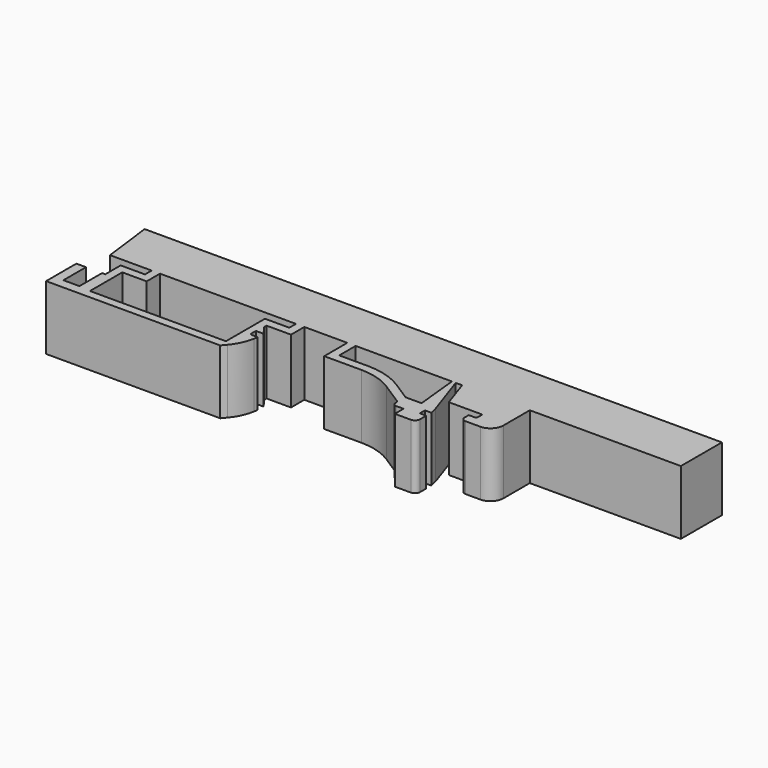
from build123d import *

# Parameters (mm, degrees)
PAD_DEPTH    = 5
SKETCH001_W  = 2.5
SKETCH001_H  = 4.4
POCKET_DEPTH = 8
SKETCH002_R  = 1.25
HOLE_DEPTH   = 7
HOLE_TIPS_R  = 1.25


with BuildPart() as part:
    # Sketch → Pad (new body, symmetric)
    with BuildSketch(Plane.XY):
        with BuildLine():
            Line((45, 12), (45, 20))
            Line((45, 20), (-45, 20))
            Line((-45, 20), (-44, 12))
            Line((-44, 12), (-37.5, 12))
            Line((-37.5, 12), (-37.5, 10.7))
            Line((-37.5, 10.7), (-41.3, 10.7))
            Line((-41.3, 10.7), (-41.3, 7.7))
            Line((-41.3, 7.7), (-45.8, 7.7))
            Line((-45.8, 7.7), (-45.8, 1.8))
            Line((-41.3, 1.8), (-45.8, 1.8))
            Line((-18.65, 1.8), (-41.3, 1.8))
            Line((-18.086075, 2.472059), (-18.65, 1.8))
            ThreePointArc((-18.086075, 2.472059), (-17.104232, 4.013245), (-16.554732, 5.756036))
            Line((-16.45, 6.35), (-16.554732, 5.756036))
            Line((-16.45, 6.35), (-17.35, 6.35))
            ThreePointArc((-17.65, 6.65), (-17.562132, 6.437868), (-17.35, 6.35))
            Line((-17.65, 6.65), (-17.65, 7.5))
            Line((-17.65, 7.5), (-16.45, 7.5))
            Line((-16.45, 7.5), (-17.5, 8.9))
            Line((-17.5, 8.9), (-17.5, 9.4))
            Line((-17.5, 9.4), (-13.7, 9.4))
            Line((-13.7, 9.4), (-13.7, 12))
            Line((-13.7, 12), (-7, 12))
            Line((-7, 12), (-7, 7.5))
            Line((-7, 7.5), (-1.2, 7.5))
            ThreePointArc((3.912237, 5.991471), (1.465081, 7.114997), (-1.2, 7.5))
            Line((3.912237, 5.991471), (7.271446, 3.819901))
            ThreePointArc((7.5, 3.4), (7.43916, 3.639036), (7.271446, 3.819901))
            Line((7.5, 3.4), (7.5, 3.2))
            ThreePointArc((7.5, 3.2), (7.646447, 2.846447), (8, 2.7))
            Line((8, 2.7), (9.2, 2.7))
            Line((9.2, 2.7), (9.2, 1))
            Line((9.2, 1), (11.7, 1))
            ThreePointArc((11.7, 1), (12.265685, 1.234315), (12.5, 1.8))
            Line((12.5, 1.8), (12.5, 3))
            Line((12.5, 3), (11.5, 3))
            Line((11.5, 3), (11.5, 4))
            Line((11.5, 4), (12.5, 4))
            Line((12.5, 4), (12.2, 5.220135))
            Line((12.2, 5.220135), (9.9, 12))
            Line((9.9, 12), (10.9, 12))
            Line((10.9, 12), (12.426579, 7.5))
            Line((12.426579, 7.5), (17.65, 7.5))
            Line((17.65, 7.5), (17.65, 6.65))
            ThreePointArc((17.35, 6.35), (17.562132, 6.437868), (17.65, 6.65))
            Line((17.35, 6.35), (16.45, 6.35))
            Line((16.45, 6.35), (16.45, 5.55))
            ThreePointArc((16.45, 5.55), (16.655025, 5.055025), (17.15, 4.85))
            Line((17.15, 4.85), (19.45, 4.85))
            ThreePointArc((19.45, 4.85), (20.864214, 5.435786), (21.45, 6.85))
            Line((21.45, 6.85), (21.45, 12))
            Line((45, 12), (21.45, 12))
        make_face()
        with BuildLine():
            Line((-5.7, 12), (-5.7, 8.8))
            Line((-5.7, 8.8), (-1.2, 8.8))
            ThreePointArc((4.617998, 7.083214), (1.833004, 8.361846), (-1.2, 8.8))
            Line((4.617998, 7.083214), (7.5, 5.220135))
            Line((7.5, 5.220135), (10, 5.220135))
            Line((10, 5.220135), (9.3, 12))
            Line((9.3, 12), (-5.7, 12))
        make_face(mode=Mode.SUBTRACT)
        Polygon((-36.2, 12), (-36.2, 9.4), (-40, 9.4), (-40, 3.1), (-18.8, 3.1), (-18.8, 10.7), (-15, 10.7), (-15, 12), align=None, mode=Mode.SUBTRACT)
    extrude(amount=PAD_DEPTH, both=True)

    # Sketch001 (on Face67 of Pad) → Pocket (cut)
    with BuildSketch(Plane.XY.offset(5)):
        with Locations((-43.05, 5.5)):
            Rectangle(SKETCH001_W, SKETCH001_H)
    extrude(amount=-POCKET_DEPTH, mode=Mode.SUBTRACT)

    # Sketch002 (on Face13 of Pocket) → Hole (cut)
    with BuildSketch(Plane(origin=(0, 20, 0), x_dir=(-1, 0, 0), z_dir=(0, 1, 0))):
        Circle(SKETCH002_R)
        with Locations((-37.5, 0)):
            Circle(SKETCH002_R)
        with Locations((37.5, 0)):
            Circle(SKETCH002_R)
    extrude(amount=-HOLE_DEPTH, mode=Mode.SUBTRACT)

    # Hole tips → Hole tip 1 section 0
    with BuildSketch(Plane(origin=(0, 13, 0), x_dir=(-1, 0, 0), z_dir=(0, 1, 0)), mode=Mode.PRIVATE) as hole_tip_1_s0:
        Circle(HOLE_TIPS_R)
    loft([hole_tip_1_s0.sketch, Vertex(0, 12.248924, 0)], mode=Mode.SUBTRACT)

    # Hole tips → Hole tip 2 section 0
    with BuildSketch(Plane(origin=(0, 13, 0), x_dir=(-1, 0, 0), z_dir=(0, 1, 0)), mode=Mode.PRIVATE) as hole_tip_2_s0:
        with Locations((-37.5, 0)):
            Circle(HOLE_TIPS_R)
    loft([hole_tip_2_s0.sketch, Vertex(37.5, 12.248924, 0)], mode=Mode.SUBTRACT)

    # Hole tips → Hole tip 3 section 0
    with BuildSketch(Plane(origin=(0, 13, 0), x_dir=(-1, 0, 0), z_dir=(0, 1, 0)), mode=Mode.PRIVATE) as hole_tip_3_s0:
        with Locations((37.5, 0)):
            Circle(HOLE_TIPS_R)
    loft([hole_tip_3_s0.sketch, Vertex(-37.5, 12.248924, 0)], mode=Mode.SUBTRACT)


solid = part.part
